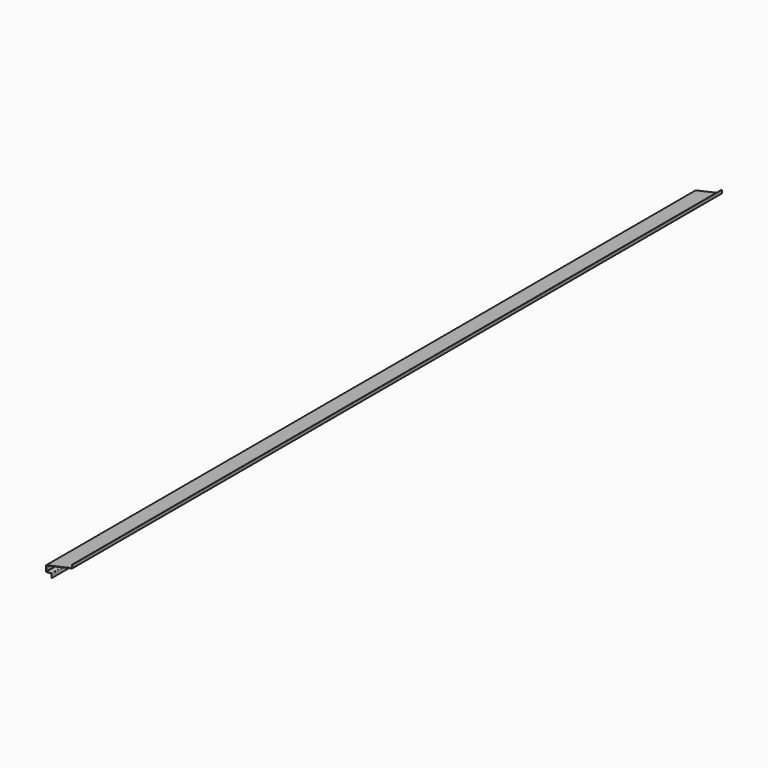
from build123d import *

# Parameters (mm, degrees)
F1_DEPTH = 2334


with BuildPart() as f1:
    # F0 (on Front) → F1 (new body)
    with BuildSketch(Plane.XZ):
        with BuildLine():
            Line((0, 10), (0, 0))
            Line((0, 0), (1, 0))
            Line((1, 0), (1, 10))
            ThreePointArc((1, 10), (0.414214, 11.414214), (-1, 12))
            Line((-1, 12), (-13, 12))
            ThreePointArc((-13, 12), (-13.707107, 12.292893), (-14, 13))
            Line((-14, 13), (-14, 26.397954))
            ThreePointArc((-14, 26.397954), (-13.780479, 27.023135), (-13.218295, 27.373836))
            Line((-13.218295, 27.373836), (59.579564, 43.657993))
            ThreePointArc((59.579564, 43.657993), (60.703931, 44.359395), (61.142973, 45.609759))
            Line((61.142973, 45.609759), (61.142973, 53.808736))
            Line((61.142973, 53.808736), (60.142973, 53.808736))
            Line((60.142973, 53.808736), (60.142973, 45.609759))
            ThreePointArc((60.142973, 45.609759), (59.923452, 44.984577), (59.361268, 44.633876))
            Line((59.361268, 44.633876), (-14.218295, 28.17486))
            ThreePointArc((-14.218295, 28.17486), (-14.780479, 27.824159), (-15, 27.198977))
            Line((-15, 27.198977), (-15, 12))
            ThreePointArc((-15, 12), (-14.707107, 11.292893), (-14, 11))
            Line((-14, 11), (-1, 11))
            ThreePointArc((-1, 11), (-0.292893, 10.707107), (0, 10))
        make_face()
    extrude(amount=F1_DEPTH)


solid = f1.part
